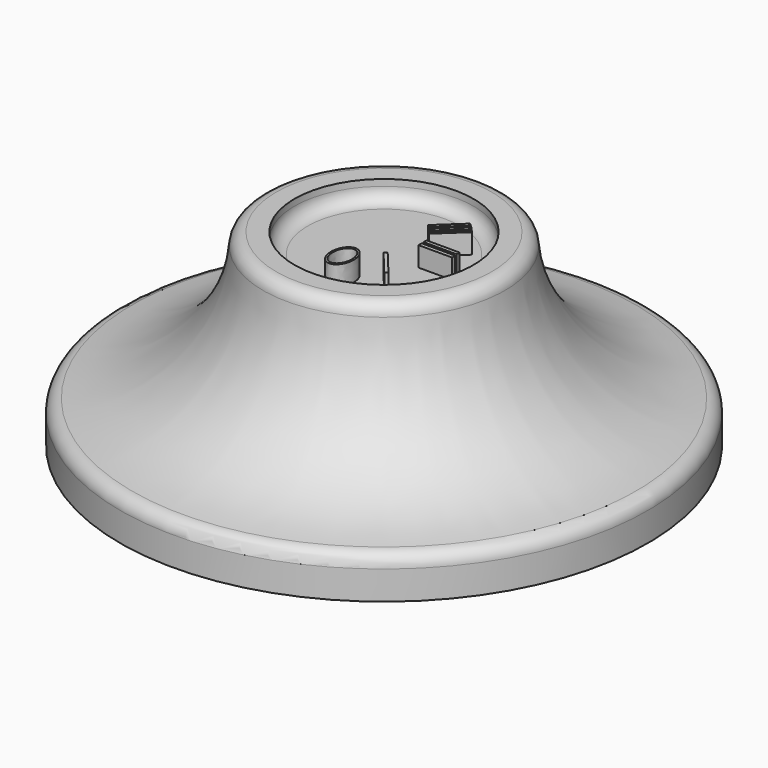
from build123d import *

# Parameters (mm, degrees)
F3_DEPTH = 8.636
F4_DEPTH = 8.636
F5_DEPTH = 9.906
F7_ANGLE = 315
F8_W     = 3.177907914
F8_H     = 0.3541615863
F9_DEPTH = 1.905


with BuildPart() as f1:
    # F0 (on Front) → F1 (revolve)
    with BuildSketch(Plane.XZ):
        with BuildLine():
            Line((10.3769032285, 0), (8.6168739945, 0))
            Line((8.6168739945, 0), (8.6168739945, -0.6195060057))
            ThreePointArc((8.6168739945, -0.6195060057), (8.2448996066, -1.5175316178), (7.3468739945, -1.8895060057))
            Line((7.3468739945, -1.8895060057), (0, -1.8895060057))
            Line((0, -1.8895060057), (0, -8.1992405387))
            Line((0, -8.1992405387), (1.905, -8.1992405387))
            ThreePointArc((1.905, -8.1992405387), (2.8030256121, -8.5712149266), (3.175, -9.4692405387))
            Line((3.175, -9.4692405387), (3.175, -18.1052405387))
            Line((3.175, -18.1052405387), (25.4, -18.1052405387))
            Line((25.4, -18.1052405387), (25.4, -15.3376918431))
            ThreePointArc((25.4, -15.3376918431), (25.0696888982, -14.4833589018), (24.2505751581, -14.073428567))
            ThreePointArc((24.2505751581, -14.073428567), (15.5875560519, -9.9324871468), (11.6435697842, -1.1780443775))
            ThreePointArc((11.6435697842, -1.1780443775), (11.2418067952, -0.3400312799), (10.3769032285, 0))
        make_face()
    revolve(axis=Axis((0, 0, -4.0996202694), (0, 0, 1)))

    # F2 (on face) → F3 (cut)
    with BuildSketch(Plane(origin=(0, 0, -18.1052405387), x_dir=(1, 0, 0), z_dir=(0, 0, -1))):
        with BuildLine():
            ThreePointArc((0, 3.175), (0.6486831187, 3.1080275436), (1.27, 2.9099355663))
            Line((1.27, 2.9099355663), (1.27, 3.175))
            Line((1.27, 3.175), (0, 3.175))
        make_face()
    extrude(amount=-F3_DEPTH, mode=Mode.SUBTRACT)

    # F2 (on face) → F4 (cut)
    with BuildSketch(Plane(origin=(0, 0, -18.1052405387), x_dir=(1, 0, 0), z_dir=(0, 0, -1))):
        with BuildLine():
            Line((1.27, -3.175), (1.27, -2.9099355663))
            ThreePointArc((1.27, -2.9099355663), (0.6486831187, -3.1080275436), (0, -3.175))
            Line((0, -3.175), (1.27, -3.175))
        make_face()
    extrude(amount=-F4_DEPTH, mode=Mode.SUBTRACT)

    # F2 (on face) → F5 (join)
    with BuildSketch(Plane(origin=(0, 0, -18.1052405387), x_dir=(1, 0, 0), z_dir=(0, 0, -1))):
        with BuildLine():
            ThreePointArc((3.175, 0), (2.6563955842, 1.7390191201), (1.27, 2.9099355663))
            Line((1.27, 2.9099355663), (1.27, -2.9099355663))
            ThreePointArc((1.27, -2.9099355663), (2.6563955842, -1.7390191201), (3.175, 0))
        make_face()
    extrude(amount=-F5_DEPTH)


with BuildPart() as f1_1:
    # F7: moved
    add(f1.part.rotate(Axis((0, 0, 11.1882397905), (0, 0, 1)), F7_ANGLE))

    # F8 (on face) → F9 (join)
    with BuildSketch(Plane.XY.offset(-1.8895060057)):
        with BuildLine():
            add(Edge.make_bspline(
                [(0, -6.5948624374), (1.883416561, -6.5948624374), (0.9417082805, -4.2149808153), (0, -1.8350991932), (-0.9417082805, -4.2149808153), (-1.883416561, -6.5948624374), (0, -6.5948624374)],
                knots=[0, 0, 0, 2.0943951024, 2.0943951024, 4.1887902048, 4.1887902048, 6.2831853072, 6.2831853072, 6.2831853072], degree=2, weights=[1, 0.5, 1, 0.5, 1, 0.5, 1]))
        make_face()
        with BuildLine():
            add(Edge.make_bspline(
                [(0, -6.3902027435), (1.587072914, -6.3902027435), (0.793536457, -4.3173106622), (0, -2.244418581), (-0.793536457, -4.3173106622), (-1.587072914, -6.3902027435), (0, -6.3902027435)],
                knots=[0, 0, 0, 2.0943951024, 2.0943951024, 4.1887902048, 4.1887902048, 6.2831853072, 6.2831853072, 6.2831853072], degree=2, weights=[1, 0.5, 1, 0.5, 1, 0.5, 1]))
        make_face(mode=Mode.SUBTRACT)
        with BuildLine():
            ThreePointArc((6.6205712655, -0.0815509193), (6.6110556981, 0.106479845), (6.5961830096, 0.2941628689))
            Line((6.5961830096, 0.2941628689), (3.4011129969, 0.2941628689))
            Line((3.4011129969, 0.2941628689), (3.3686997903, -0.0815509193))
            Line((3.3686997903, -0.0815509193), (6.6205712655, -0.0815509193))
        make_face()
        with BuildLine():
            ThreePointArc((4.880201378, 4.4474483246), (4.8569173169, 4.4728644364), (4.8335008903, 4.4981586492))
            Line((4.8335008903, 4.4981586492), (4.6411264654, 4.6963930013))
            Line((4.6411264654, 4.6963930013), (4.880201378, 4.4474483246))
        make_face()
        with BuildLine():
            Line((4.6411264654, 4.6963930013), (4.8335008903, 4.4981586492))
            ThreePointArc((4.8335008903, 4.4981586492), (4.7383504616, 4.598281961), (4.6411264654, 4.6963930013))
        make_face()
        with BuildLine():
            Line((4.880201378, 4.4474483246), (4.6411264654, 4.6963930013))
            Line((4.6411264654, 4.6963930013), (2.3027266508, 2.5202284386))
            ThreePointArc((2.3027266508, 2.5202284386), (2.4272271455, 2.4005561429), (2.5455165772, 2.2747410328))
            Line((2.5455165772, 2.2747410328), (4.880201378, 4.4474483246))
        make_face()
        with BuildLine():
            ThreePointArc((2.5455165772, 2.2747410328), (2.4272271455, 2.4005561429), (2.3027266508, 2.5202284386))
            Line((2.3027266508, 2.5202284386), (2.5455165772, 2.2747410328))
        make_face()
        with BuildLine():
            ThreePointArc((5.2047398977, 4.0628616377), (5.1090319245, 4.1825775407), (5.0105709352, 4.3000396502))
            Line((5.0105709352, 4.3000396502), (5.2047398977, 4.0628616377))
        make_face()
        with BuildLine():
            Line((5.2047398977, 4.0628616377), (5.0105709352, 4.3000396502))
            Line((5.0105709352, 4.3000396502), (2.6724676944, 2.1241510854))
            ThreePointArc((2.6724676944, 2.1241510854), (2.7656382948, 2.001336112), (2.8531693872, 1.8744401454))
            Line((2.8531693872, 1.8744401454), (5.2047398977, 4.0628616377))
        make_face()
        with BuildLine():
            ThreePointArc((2.8531693872, 1.8744401454), (2.7656382948, 2.001336112), (2.6724676944, 2.1241510854))
            Line((2.6724676944, 2.1241510854), (2.8531693872, 1.8744401454))
        make_face()
        Polygon((2.1013346007, -2.683153232), (4.1404438924, -5.1432369636), (4.3801230663, -4.9407169534), (2.3429079237, -2.4829184183), align=None)
        with BuildLine():
            Line((4.3801230663, -4.9407169534), (4.1404438924, -5.1432369636))
            ThreePointArc((4.1404438924, -5.1432369636), (4.2614867022, -5.0434009534), (4.3801230663, -4.9407169534))
        make_face()
        with BuildLine():
            ThreePointArc((4.4787651009, 4.8514766063), (4.3523729872, 4.9651799031), (4.2230953349, 5.0755913825))
            Line((4.2230953349, 5.0755913825), (4.4787651009, 4.8514766063))
        make_face()
        Polygon((4.4787651009, 4.8514766063), (4.2230953349, 5.0755913825), (1.8993587024, 2.9130726886), (2.1297860348, 2.6654667674), align=None)
        with Locations((4.9583300171, 0.7260856899)):
            Rectangle(F8_W, F8_H)
    extrude(amount=F9_DEPTH)


solid = f1_1.part
